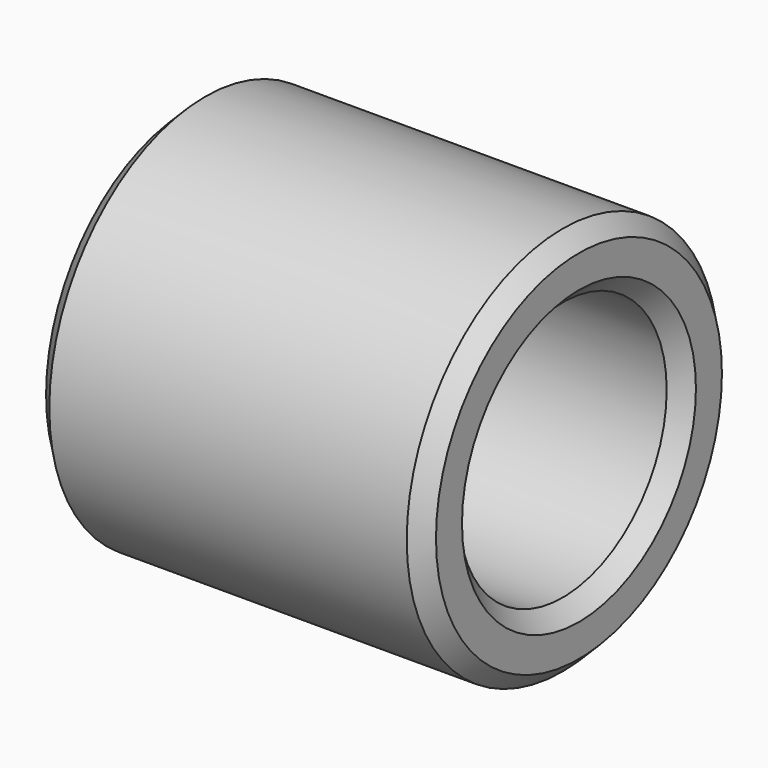
from build123d import *

# Parameters (mm, degrees)
F0_R     = 6
F0_R_2   = 4
F1_DEPTH = 12
F2_SIZE  = 0.5


with BuildPart() as f1:
    # F0 (on Right) → F1 (new body)
    with BuildSketch(Plane.YZ):
        Circle(F0_R)
        Circle(F0_R_2, mode=Mode.SUBTRACT)
    extrude(amount=F1_DEPTH)

    # F2
    f2_edges = [f1.edges().sort_by_distance(p)[0] for p in [
        (12, -6, 0),
        (12, -4, 0),
        (0, -6, 0),
        (0, -4, 0),
    ]]
    chamfer(f2_edges, length=F2_SIZE)


solid = f1.part
